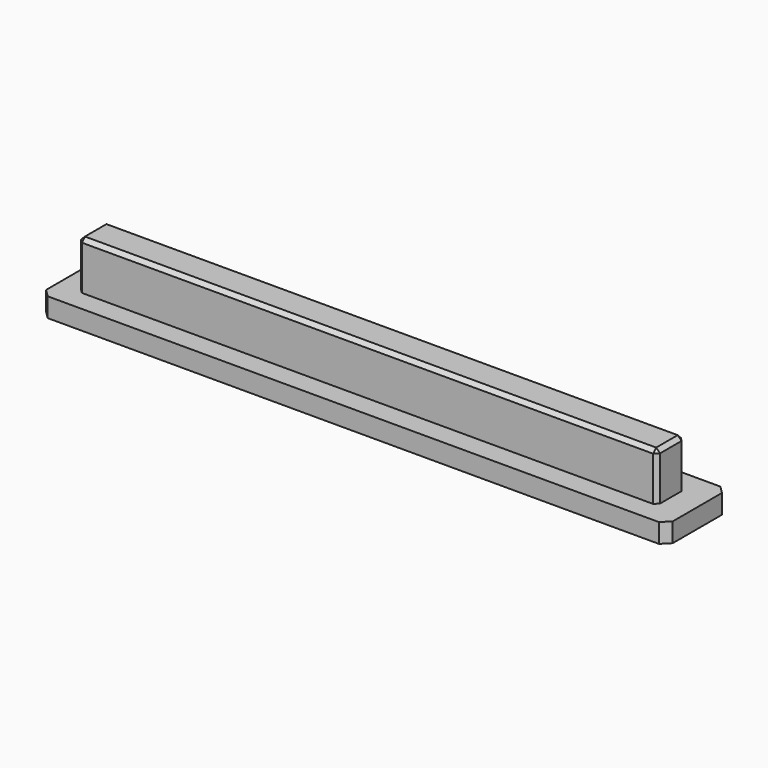
from build123d import *

# Parameters (mm, degrees)
BOX033_W              = 30.12
BOX033_H              = 1.8
BOX033_DEPTH          = 3.5
CHAMFER011015011_SIZE = 0.2
BOX034_W              = 32.6
BOX034_H              = 4
BOX034_DEPTH          = 1
CHAMFER011015012_SIZE = 0.4


with BuildPart() as chamfer011015011:
    # Box033 → Box033 (new body)
    with BuildSketch(Plane(origin=(-4.9, -0.9, 0), x_dir=(1, 0, 0), z_dir=(0, 0, 1))):
        with Locations((15.06, 0.9)):
            Rectangle(BOX033_W, BOX033_H)
    extrude(amount=BOX033_DEPTH)

    # Chamfer011015011
    chamfer011015011_edges = [chamfer011015011.edges().sort_by_distance(p)[0] for p in [
        (-4.9, -0.9, 1.75),
        (-4.9, 0, 3.5),
        (-4.9, 0.9, 1.75),
        (25.22, -0.9, 1.75),
        (25.22, 0, 3.5),
        (25.22, 0.9, 1.75),
        (10.16, -0.9, 3.5),
        (10.16, 0.9, 3.5),
    ]]
    chamfer(chamfer011015011_edges, length=CHAMFER011015011_SIZE)


with BuildPart() as color_slot_long:
    # Box034 → Box034 (new body)
    with BuildSketch(Plane(origin=(-6, -2, 0), x_dir=(1, 0, 0), z_dir=(0, 0, 1))):
        with Locations((16.3, 2)):
            Rectangle(BOX034_W, BOX034_H)
    extrude(amount=BOX034_DEPTH)

    # Chamfer011015012
    chamfer011015012_edges = [color_slot_long.edges().sort_by_distance(p)[0] for p in [
        (-6, -2, 0.5),
        (-6, 2, 0.5),
        (26.6, -2, 0.5),
        (26.6, 2, 0.5),
    ]]
    chamfer(chamfer011015012_edges, length=CHAMFER011015012_SIZE)

    # Fusion011012002: union Chamfer011015011
    add(chamfer011015011.part)


solid = color_slot_long.part
